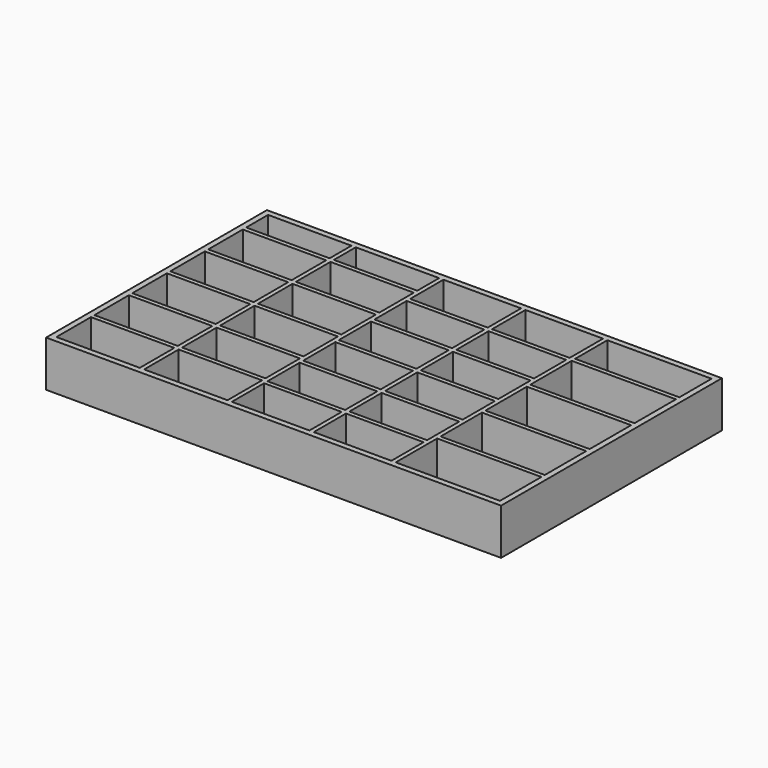
from build123d import *

# Parameters (mm, degrees)
F0_W     = 1004.8875
F0_H     = 609.6
F0_W_2   = 184.15
F0_H_2   = 95.25
F0_W_3   = 171.45
F0_H_3   = 88.9
F0_W_4   = 230.1875
F0_H_4   = 114.3
F0_H_5   = 60.325
F0_H_6   = 92.075
F1_DEPTH = 76.2
F2_W     = 1004.8875
F2_H     = 609.6
F3_DEPTH = 12.7
F5_DEPTH = 12.7


with BuildPart() as f1:
    # F0 (on Top) → F1 (new body)
    with BuildSketch(Plane.XY):
        with Locations((-595.931344, -92.764258)):
            Rectangle(F0_W, F0_H)
        with Locations((-993.600094, -337.239258)):
            Rectangle(F0_W_2, F0_H_2, mode=Mode.SUBTRACT)
        with Locations((-799.925094, -337.239258)):
            Rectangle(F0_W_2, F0_H_2, mode=Mode.SUBTRACT)
        with Locations((-612.600094, -340.414258)):
            Rectangle(F0_W_3, F0_H_3, mode=Mode.SUBTRACT)
        with Locations((-993.600094, -232.464258)):
            Rectangle(F0_W_2, F0_H_2, mode=Mode.SUBTRACT)
        with Locations((-993.600094, -127.689258)):
            Rectangle(F0_W_2, F0_H_2, mode=Mode.SUBTRACT)
        with Locations((-799.925094, -232.464258)):
            Rectangle(F0_W_2, F0_H_2, mode=Mode.SUBTRACT)
        with Locations((-612.600094, -241.989258)):
            Rectangle(F0_W_3, F0_H_3, mode=Mode.SUBTRACT)
        with Locations((-799.925094, -127.689258)):
            Rectangle(F0_W_2, F0_H_2, mode=Mode.SUBTRACT)
        with Locations((-612.600094, -143.564258)):
            Rectangle(F0_W_3, F0_H_3, mode=Mode.SUBTRACT)
        with Locations((-431.625094, -340.414258)):
            Rectangle(F0_W_3, F0_H_3, mode=Mode.SUBTRACT)
        with Locations((-221.281344, -327.714258)):
            Rectangle(F0_W_4, F0_H_4, mode=Mode.SUBTRACT)
        with Locations((-431.625094, -241.989258)):
            Rectangle(F0_W_3, F0_H_3, mode=Mode.SUBTRACT)
        with Locations((-431.625094, -143.564258)):
            Rectangle(F0_W_3, F0_H_3, mode=Mode.SUBTRACT)
        with Locations((-221.281344, -203.889258)):
            Rectangle(F0_W_4, F0_H_4, mode=Mode.SUBTRACT)
        with Locations((-993.600094, -22.914258)):
            Rectangle(F0_W_2, F0_H_2, mode=Mode.SUBTRACT)
        with Locations((-799.925094, -22.914258)):
            Rectangle(F0_W_2, F0_H_2, mode=Mode.SUBTRACT)
        with Locations((-612.600094, -45.139258)):
            Rectangle(F0_W_3, F0_H_3, mode=Mode.SUBTRACT)
        with Locations((-612.600094, 53.285742)):
            Rectangle(F0_W_3, F0_H_3, mode=Mode.SUBTRACT)
        with Locations((-993.600094, 81.860742)):
            Rectangle(F0_W_2, F0_H_2, mode=Mode.SUBTRACT)
        with Locations((-993.600094, 169.173242)):
            Rectangle(F0_W_2, F0_H_5, mode=Mode.SUBTRACT)
        with Locations((-799.925094, 81.860742)):
            Rectangle(F0_W_2, F0_H_2, mode=Mode.SUBTRACT)
        with Locations((-799.925094, 169.173242)):
            Rectangle(F0_W_2, F0_H_5, mode=Mode.SUBTRACT)
        with Locations((-612.600094, 153.298242)):
            Rectangle(F0_W_3, F0_H_6, mode=Mode.SUBTRACT)
        with Locations((-431.625094, -45.139258)):
            Rectangle(F0_W_3, F0_H_3, mode=Mode.SUBTRACT)
        with Locations((-431.625094, 53.285742)):
            Rectangle(F0_W_3, F0_H_3, mode=Mode.SUBTRACT)
        with Locations((-221.281344, -80.064258)):
            Rectangle(F0_W_4, F0_H_4, mode=Mode.SUBTRACT)
        with Locations((-221.281344, 43.760742)):
            Rectangle(F0_W_4, F0_H_4, mode=Mode.SUBTRACT)
        with Locations((-431.625094, 153.298242)):
            Rectangle(F0_W_3, F0_H_6, mode=Mode.SUBTRACT)
        with Locations((-221.281344, 154.885742)):
            Rectangle(F0_W_4, F0_H_3, mode=Mode.SUBTRACT)
    extrude(amount=F1_DEPTH)

    # F2 (on face) → F3 (join)
    with BuildSketch(Plane(origin=(0, 0, 0), x_dir=(1, 0, 0), z_dir=(0, 0, -1))):
        with Locations((-595.931344, 92.764258)):
            Rectangle(F2_W, F2_H)
    extrude(amount=F3_DEPTH)

    # F4 (on face) → F5 (join)
    with BuildSketch(Plane(origin=(0, 0, -12.7), x_dir=(1, 0, 0), z_dir=(0, 0, -1))):
        Polygon((-1098.375094, 397.564258), (-1098.375094, -212.035742), (-1085.675094, -212.035742), (-1085.675094, 384.864258), (-106.187594, 384.864258), (-106.187594, -212.035742), (-93.487594, -212.035742), (-93.487594, 397.564258), align=None)
    extrude(amount=F5_DEPTH)


solid = f1.part
